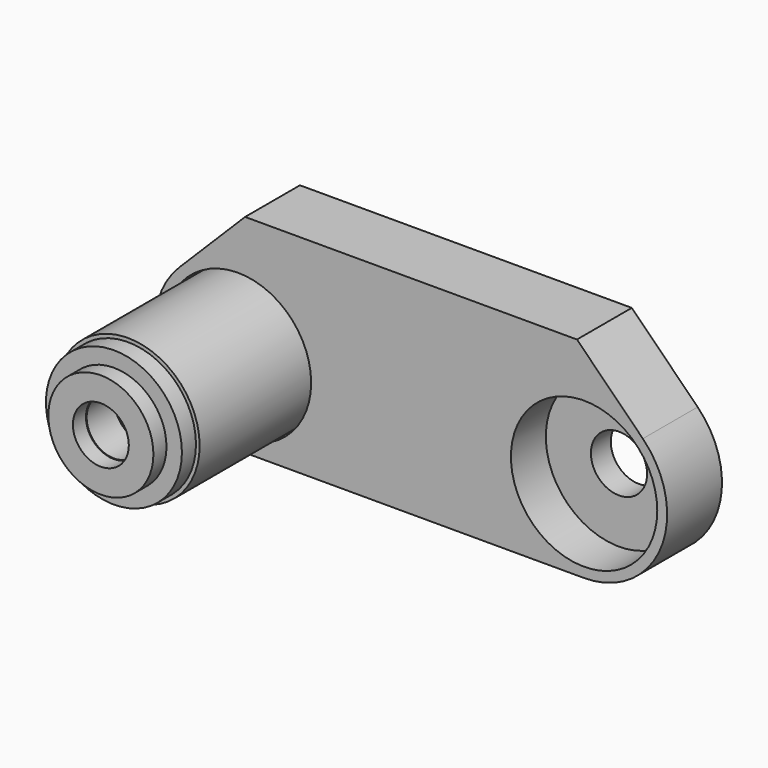
from build123d import *

# Parameters (mm, degrees)
F0_R      = 5.1562
F1_DEPTH  = 12.573
F2_R      = 13.4239
F3_DEPTH  = 8.001
F4_R      = 13.1445
F4_R_2    = 9.398
F5_DEPTH  = 33.2232
F6_R      = 9.4361
F6_R_2    = 5.0038
F7_DEPTH  = 3.175
F8_R      = 12.4714
F8_R_2    = 5.0038
F9_DEPTH  = 3.2258
F10_R     = 9.6393
F10_R_2   = 5.1308
F11_DEPTH = 2.9972


with BuildPart() as f1:
    # F0 (on Front) → F1 (new body)
    with BuildSketch(Plane.XZ):
        with BuildLine():
            ThreePointArc((-42.526307, 10.776307), (-45.829924, -5.832096), (-31.75, -15.24))
            Line((-31.75, -15.24), (31.75, -15.24))
            ThreePointArc((31.75, -15.24), (45.829924, -5.832096), (42.526307, 10.776307))
            Line((42.526307, 10.776307), (30.442615, 22.86))
            Line((30.442615, 22.86), (-30.442615, 22.86))
            Line((-30.442615, 22.86), (-42.526307, 10.776307))
        make_face()
        with Locations((-31.75, 0)):
            Circle(F0_R, mode=Mode.SUBTRACT)
        with Locations((31.75, 0)):
            Circle(F0_R, mode=Mode.SUBTRACT)
    extrude(amount=F1_DEPTH)

    # F2 (on face) → F3 (cut)
    with BuildSketch(Plane.XZ.offset(12.573)):
        with Locations((-31.75, 0)):
            Circle(F2_R)
        with Locations((31.75, 0)):
            Circle(F2_R)
    extrude(amount=-F3_DEPTH, mode=Mode.SUBTRACT)


with BuildPart() as f5:
    # F4 (on face) → F5 (new body)
    with BuildSketch(Plane.XZ.offset(4.572)):
        with Locations((-31.75, 0)):
            Circle(F4_R)
        with Locations((-31.75, 0)):
            Circle(F4_R_2, mode=Mode.SUBTRACT)
    extrude(amount=F5_DEPTH)

    # F6 (on face) → F7 (join)
    with BuildSketch(Plane.XZ.offset(37.7952)):
        with Locations((-31.75, 0)):
            Circle(F6_R)
        with Locations((-31.75, 0)):
            Circle(F6_R_2, mode=Mode.SUBTRACT)
    extrude(amount=-F7_DEPTH)

    # F8 (on face) → F9 (join)
    with BuildSketch(Plane.XZ.offset(37.7952)):
        with Locations((-31.75, 0)):
            Circle(F8_R)
        with Locations((-31.75, 0)):
            Circle(F8_R_2, mode=Mode.SUBTRACT)
    extrude(amount=F9_DEPTH)

    # F10 (on face) → F11 (join)
    with BuildSketch(Plane.XZ.offset(41.021)):
        with Locations((-31.75, 0)):
            Circle(F10_R)
        with Locations((-31.75, 0)):
            Circle(F10_R_2, mode=Mode.SUBTRACT)
    extrude(amount=F11_DEPTH)


solid = Compound([f1.part, f5.part])
